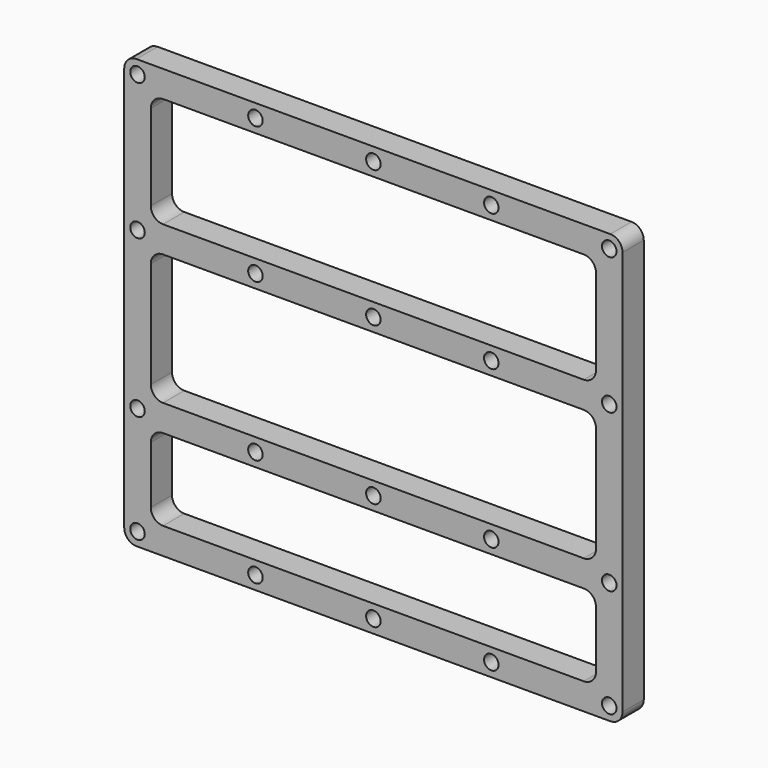
from build123d import *

# Parameters (mm, degrees)
F0_R     = 1.778
F1_DEPTH = 6.5


with BuildPart() as f1:
    # F0 (on Front) → F1 (new body)
    with BuildSketch(Plane.XZ):
        with BuildLine():
            Line((0, 102), (0, 3))
            ThreePointArc((0, 3), (0.87868, 0.87868), (3, 0))
            Line((3, 0), (119, 0))
            ThreePointArc((119, 0), (121.12132, 0.87868), (122, 3))
            Line((122, 3), (122, 102))
            ThreePointArc((122, 102), (121.12132, 104.12132), (119, 105))
            Line((119, 105), (3, 105))
            ThreePointArc((3, 105), (0.87868, 104.12132), (0, 102))
        make_face()
        with Locations((3.25, 3.25)):
            Circle(F0_R, mode=Mode.SUBTRACT)
        with Locations((32.125, 3.25)):
            Circle(F0_R, mode=Mode.SUBTRACT)
        with Locations((3.25, 29.75)):
            Circle(F0_R, mode=Mode.SUBTRACT)
        with Locations((32.125, 29.75)):
            Circle(F0_R, mode=Mode.SUBTRACT)
        with Locations((61, 3.25)):
            Circle(F0_R, mode=Mode.SUBTRACT)
        with Locations((89.875, 3.25)):
            Circle(F0_R, mode=Mode.SUBTRACT)
        with BuildLine():
            Line((112.5, 6.5), (9.5, 6.5))
            ThreePointArc((9.5, 6.5), (7.37868, 7.37868), (6.5, 9.5))
            Line((6.5, 9.5), (6.5, 23.5))
            ThreePointArc((6.5, 23.5), (7.37868, 25.62132), (9.5, 26.5))
            Line((9.5, 26.5), (112.5, 26.5))
            ThreePointArc((112.5, 26.5), (114.62132, 25.62132), (115.5, 23.5))
            Line((115.5, 23.5), (115.5, 9.5))
            ThreePointArc((115.5, 9.5), (114.62132, 7.37868), (112.5, 6.5))
        make_face(mode=Mode.SUBTRACT)
        with Locations((118.75, 3.25)):
            Circle(F0_R, mode=Mode.SUBTRACT)
        with Locations((61, 29.75)):
            Circle(F0_R, mode=Mode.SUBTRACT)
        with Locations((89.875, 29.75)):
            Circle(F0_R, mode=Mode.SUBTRACT)
        with BuildLine():
            ThreePointArc((9.5, 33), (7.37868, 33.87868), (6.5, 36))
            Line((6.5, 36), (6.5, 62))
            ThreePointArc((6.5, 62), (7.37868, 64.12132), (9.5, 65))
            Line((9.5, 65), (112.5, 65))
            ThreePointArc((112.5, 65), (114.62132, 64.12132), (115.5, 62))
            Line((115.5, 62), (115.5, 36))
            ThreePointArc((115.5, 36), (114.62132, 33.87868), (112.5, 33))
            Line((112.5, 33), (9.5, 33))
        make_face(mode=Mode.SUBTRACT)
        with Locations((118.75, 29.75)):
            Circle(F0_R, mode=Mode.SUBTRACT)
        with Locations((3.25, 68.25)):
            Circle(F0_R, mode=Mode.SUBTRACT)
        with Locations((32.125, 68.25)):
            Circle(F0_R, mode=Mode.SUBTRACT)
        with Locations((3.25, 101.75)):
            Circle(F0_R, mode=Mode.SUBTRACT)
        with Locations((32.125, 101.75)):
            Circle(F0_R, mode=Mode.SUBTRACT)
        with Locations((61, 68.25)):
            Circle(F0_R, mode=Mode.SUBTRACT)
        with Locations((89.875, 68.25)):
            Circle(F0_R, mode=Mode.SUBTRACT)
        with Locations((118.75, 68.25)):
            Circle(F0_R, mode=Mode.SUBTRACT)
        with BuildLine():
            Line((6.5, 74.5), (6.5, 95.5))
            ThreePointArc((6.5, 95.5), (7.37868, 97.62132), (9.5, 98.5))
            Line((9.5, 98.5), (112.5, 98.5))
            ThreePointArc((112.5, 98.5), (114.62132, 97.62132), (115.5, 95.5))
            Line((115.5, 95.5), (115.5, 74.5))
            ThreePointArc((115.5, 74.5), (114.62132, 72.37868), (112.5, 71.5))
            Line((112.5, 71.5), (9.5, 71.5))
            ThreePointArc((9.5, 71.5), (7.37868, 72.37868), (6.5, 74.5))
        make_face(mode=Mode.SUBTRACT)
        with Locations((61, 101.75)):
            Circle(F0_R, mode=Mode.SUBTRACT)
        with Locations((89.875, 101.75)):
            Circle(F0_R, mode=Mode.SUBTRACT)
        with Locations((118.75, 101.75)):
            Circle(F0_R, mode=Mode.SUBTRACT)
    extrude(amount=F1_DEPTH)


solid = f1.part
